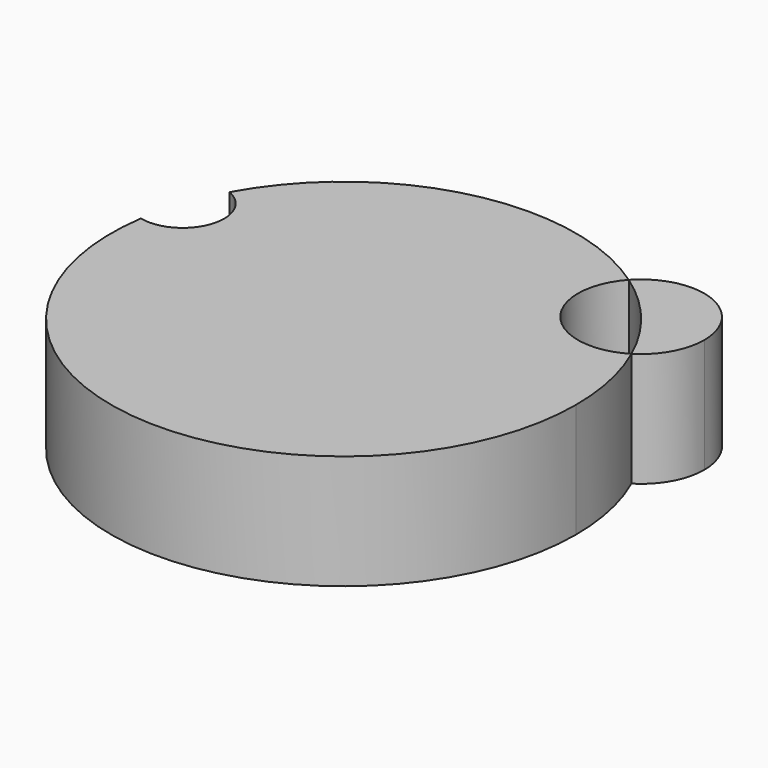
from build123d import *

# Parameters (mm, degrees)
F1_DEPTH = 25.4


with BuildPart() as f1:
    # F0 (on Top) → F1 (new body)
    with BuildSketch(Plane.XY):
        with BuildLine():
            ThreePointArc((-51.094143, 7.547205), (-3.78377, -51.509755), (51.648541, 0))
            ThreePointArc((51.648541, 0), (50.520095, 10.737401), (47.184067, 21.005608))
            ThreePointArc((47.184067, 21.005608), (28.970806, 23.9835), (29.445812, 42.432486))
            ThreePointArc((29.445812, 42.432486), (-11.800696, 50.282356), (-45.248582, 24.902562))
            ThreePointArc((-45.248582, 24.902562), (-41.248943, 21.511798), (-39.753571, 16.486039))
            ThreePointArc((-39.753571, 16.486039), (-43.255831, 9.266079), (-51.094143, 7.547205))
        make_face()
        with BuildLine():
            ThreePointArc((29.445812, 42.432486), (39.784574, 32.935685), (47.184067, 21.005608))
            ThreePointArc((47.184067, 21.005608), (52.051541, 26.109211), (53.823065, 32.935685))
            ThreePointArc((53.823065, 32.935685), (44.880583, 46.016585), (29.445812, 42.432486))
        make_face()
    extrude(amount=F1_DEPTH)


solid = f1.part
